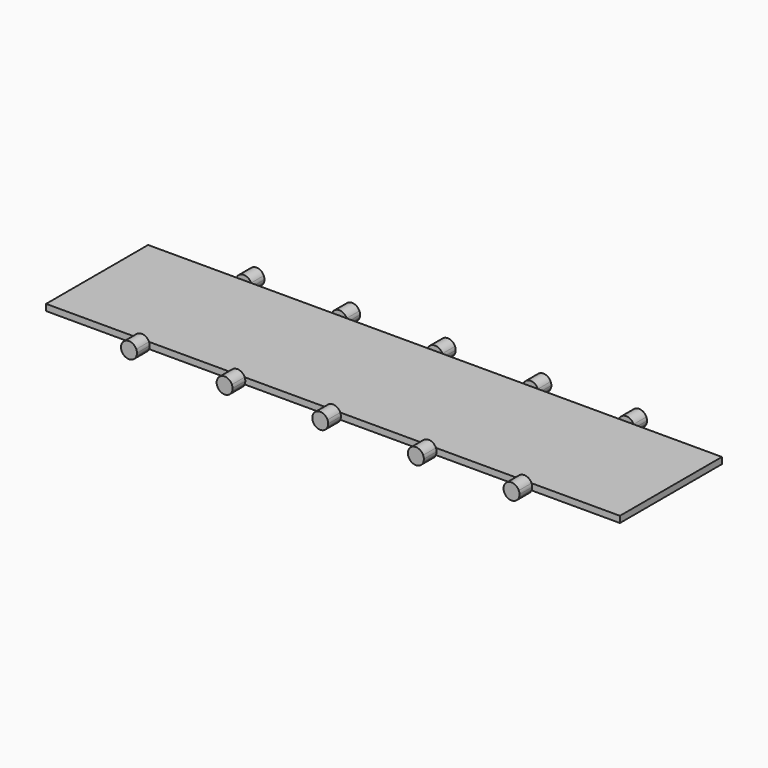
from build123d import *

# Parameters (mm, degrees)
F0_W     = 228.6
F0_H     = 50.8
F1_DEPTH = 2.54
F3_DEPTH = 6.35


with BuildPart() as f1:
    # F0 (on Top) → F1 (new body)
    with BuildSketch(Plane.XY):
        Rectangle(F0_W, F0_H)
    extrude(amount=F1_DEPTH)


with BuildPart() as f3:
    # F2 (on face) → F3 (new body)
    with BuildSketch(Plane.XZ.offset(25.4)):
        with BuildLine():
            ThreePointArc((-79.1099355663, 0), (-76.2, -1.905), (-73.2900644337, 0))
            Line((-73.2900644337, 0), (-79.1099355663, 0))
        make_face()
        with BuildLine():
            ThreePointArc((-73.2900644337, 0), (-73.0919724564, 0.6213168813), (-73.025, 1.27))
            ThreePointArc((-73.025, 1.27), (-73.0919724564, 1.9186831187), (-73.2900644337, 2.54))
            Line((-73.2900644337, 2.54), (-79.1099355663, 2.54))
            ThreePointArc((-79.1099355663, 2.54), (-79.375, 1.27), (-79.1099355663, 0))
            Line((-79.1099355663, 0), (-73.2900644337, 0))
        make_face()
        with BuildLine():
            Line((-79.1099355663, 2.54), (-73.2900644337, 2.54))
            ThreePointArc((-73.2900644337, 2.54), (-76.2, 4.445), (-79.1099355663, 2.54))
        make_face()
    extrude(amount=F3_DEPTH)


with BuildPart() as f3b:
    # F2 (on face) → F3, piece 2 (new body)
    with BuildSketch(Plane.XZ.offset(25.4)):
        with BuildLine():
            Line((-35.1900644337, 0), (-41.0099355663, 0))
            ThreePointArc((-41.0099355663, 0), (-38.1, -1.905), (-35.1900644337, 0))
        make_face()
        with BuildLine():
            Line((-35.1900644337, 2.54), (-41.0099355663, 2.54))
            ThreePointArc((-41.0099355663, 2.54), (-41.275, 1.27), (-41.0099355663, 0))
            Line((-41.0099355663, 0), (-35.1900644337, 0))
            ThreePointArc((-35.1900644337, 0), (-34.9919724564, 0.6213168813), (-34.925, 1.27))
            ThreePointArc((-34.925, 1.27), (-34.9919724564, 1.9186831187), (-35.1900644337, 2.54))
        make_face()
        with BuildLine():
            ThreePointArc((-35.1900644337, 2.54), (-38.1, 4.445), (-41.0099355663, 2.54))
            Line((-41.0099355663, 2.54), (-35.1900644337, 2.54))
        make_face()
    extrude(amount=F3_DEPTH)


with BuildPart() as f3c:
    # F2 (on face) → F3, piece 3 (new body)
    with BuildSketch(Plane.XZ.offset(25.4)):
        with BuildLine():
            Line((2.9099355663, 0), (-2.9099355663, 0))
            ThreePointArc((-2.9099355663, 0), (0, -1.905), (2.9099355663, 0))
        make_face()
        with BuildLine():
            Line((2.9099355663, 2.54), (-2.9099355663, 2.54))
            ThreePointArc((-2.9099355663, 2.54), (-3.175, 1.27), (-2.9099355663, 0))
            Line((-2.9099355663, 0), (2.9099355663, 0))
            ThreePointArc((2.9099355663, 0), (3.1080275436, 0.6213168813), (3.175, 1.27))
            ThreePointArc((3.175, 1.27), (3.1080275436, 1.9186831187), (2.9099355663, 2.54))
        make_face()
        with BuildLine():
            ThreePointArc((2.9099355663, 2.54), (0, 4.445), (-2.9099355663, 2.54))
            Line((-2.9099355663, 2.54), (2.9099355663, 2.54))
        make_face()
    extrude(amount=F3_DEPTH)


with BuildPart() as f3d:
    # F2 (on face) → F3, piece 4 (new body)
    with BuildSketch(Plane.XZ.offset(25.4)):
        with BuildLine():
            ThreePointArc((41.0099355663, 2.54), (38.1, 4.445), (35.1900644337, 2.54))
            Line((35.1900644337, 2.54), (41.0099355663, 2.54))
        make_face()
        with BuildLine():
            Line((41.0099355663, 2.54), (35.1900644337, 2.54))
            ThreePointArc((35.1900644337, 2.54), (34.925, 1.27), (35.1900644337, 0))
            Line((35.1900644337, 0), (41.0099355663, 0))
            ThreePointArc((41.0099355663, 0), (41.2080275436, 0.6213168813), (41.275, 1.27))
            ThreePointArc((41.275, 1.27), (41.2080275436, 1.9186831187), (41.0099355663, 2.54))
        make_face()
        with BuildLine():
            Line((41.0099355663, 0), (35.1900644337, 0))
            ThreePointArc((35.1900644337, 0), (38.1, -1.905), (41.0099355663, 0))
        make_face()
    extrude(amount=F3_DEPTH)


with BuildPart() as f3e:
    # F2 (on face) → F3, piece 5 (new body)
    with BuildSketch(Plane.XZ.offset(25.4)):
        with BuildLine():
            Line((79.1099355663, 0), (73.2900644337, 0))
            ThreePointArc((73.2900644337, 0), (76.2, -1.905), (79.1099355663, 0))
        make_face()
        with BuildLine():
            Line((79.1099355663, 2.54), (73.2900644337, 2.54))
            ThreePointArc((73.2900644337, 2.54), (73.025, 1.27), (73.2900644337, 0))
            Line((73.2900644337, 0), (79.1099355663, 0))
            ThreePointArc((79.1099355663, 0), (79.3080275436, 0.6213168813), (79.375, 1.27))
            ThreePointArc((79.375, 1.27), (79.3080275436, 1.9186831187), (79.1099355663, 2.54))
        make_face()
        with BuildLine():
            ThreePointArc((79.1099355663, 2.54), (76.2, 4.445), (73.2900644337, 2.54))
            Line((73.2900644337, 2.54), (79.1099355663, 2.54))
        make_face()
    extrude(amount=F3_DEPTH)


with BuildPart() as f4_1:
    # F4: instance of F3
    add(f3.part.mirror(Plane.XZ))


with BuildPart() as f4_2:
    # F4: instance of F3b
    add(f3b.part.mirror(Plane.XZ))


with BuildPart() as f4_3:
    # F4: instance of F3c
    add(f3c.part.mirror(Plane.XZ))


with BuildPart() as f4_4:
    # F4: instance of F3d
    add(f3d.part.mirror(Plane.XZ))


with BuildPart() as f4_5:
    # F4: instance of F3e
    add(f3e.part.mirror(Plane.XZ))


solid = Compound([f1.part, f3.part, f3b.part, f3c.part, f3d.part, f3e.part, f4_1.part, f4_2.part, f4_3.part, f4_4.part, f4_5.part])
